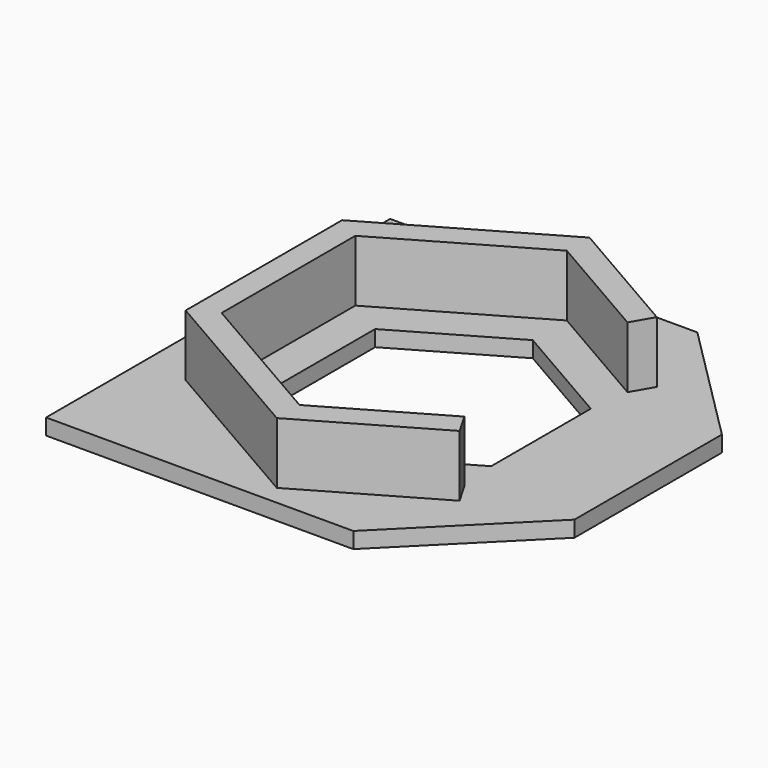
from build123d import *

# Parameters (mm, degrees)
F0_W     = 35
F0_H     = 35
F1_DEPTH = 1.3
F3_DEPTH = 25
F4_DEPTH = 5
F5_SIZE  = 10


with BuildPart() as f1:
    # F0 (on Top) → F1 (new body)
    with BuildSketch(Plane.XY):
        with Locations((17.5, 17.5)):
            Rectangle(F0_W, F0_H)
    extrude(amount=F1_DEPTH)

    # F2 (on face) → F3 (cut)
    with BuildSketch(Plane.XY.offset(1.3)):
        Polygon((26.275, 22.566249), (17.5, 27.632497), (8.725, 22.566249), (8.725, 12.433751), (17.5, 7.367503), (26.275, 12.433751), align=None)
    extrude(amount=-F3_DEPTH, mode=Mode.SUBTRACT)

    # F2 (on face) → F4 (join)
    with BuildSketch(Plane.XY.offset(1.3)):
        Polygon((5.725, 10.701701), (5.725, 24.298299), (17.5, 31.096599), (26.676924, 25.798299), (27.676924, 27.53035), (17.5, 33.406), (3.725, 25.453), (3.725, 9.547), (17.5, 1.594), (27.676924, 7.46965), (26.676924, 9.201701), (17.5, 3.903401), align=None)
    extrude(amount=F4_DEPTH)

    # F5
    f5_edges = [f1.edges().sort_by_distance(p)[0] for p in [
        (35, 0, 0.65),
        (35, 35, 0.65),
    ]]
    chamfer(f5_edges, length=F5_SIZE)


solid = f1.part
